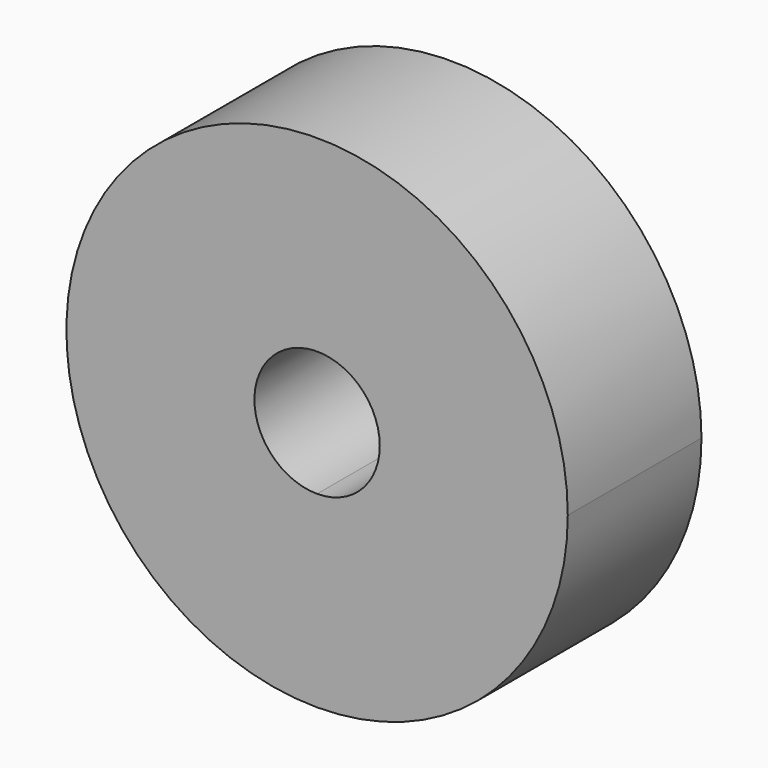
from build123d import *

# Parameters (mm, degrees)
F1_DEPTH = 10


with BuildPart() as f1:
    # F0 (on Front) → F1 (new body)
    with BuildSketch(Plane.XZ):
        with BuildLine():
            ThreePointArc((15, 200), (-10.606602, 210.606602), (0, 185))
            ThreePointArc((0, 185), (10.606602, 189.393398), (15, 200))
        make_face()
        with BuildLine():
            ThreePointArc((3.75, 200), (2.65165, 197.34835), (0, 196.25))
            ThreePointArc((0, 196.25), (-2.65165, 202.65165), (3.75, 200))
        make_face(mode=Mode.SUBTRACT)
    extrude(amount=F1_DEPTH)


solid = f1.part
